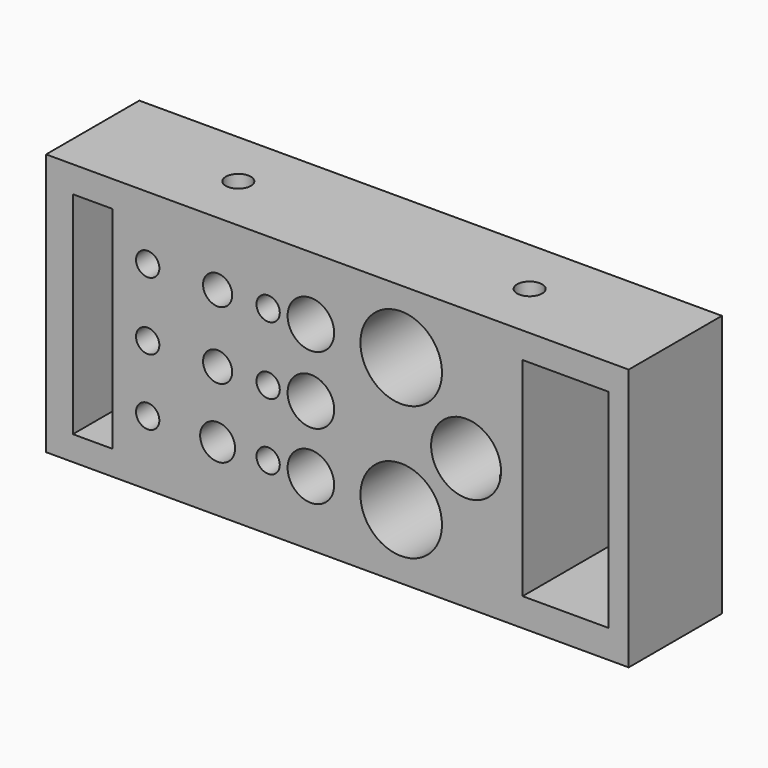
from build123d import *

# Parameters (mm, degrees)
F0_W     = 100
F0_H     = 45
F0_R     = 2
F0_R_2   = 3
F0_R_3   = 4
F0_W_2   = 6.83609
F0_H_2   = 36.256011
F0_R_4   = 7
F0_R_5   = 2.5
F0_R_6   = 6
F0_W_3   = 14.703342
F0_H_3   = 35.687724
F1_DEPTH = 20
F2_R     = 2.15
F3_DEPTH = 50
F4_R     = 4
F5_DEPTH = 40


with BuildPart() as f1:
    # F0 (on Front) → F1 (new body)
    with BuildSketch(Plane.XZ):
        with Locations((-3.569908, 42.308319)):
            Rectangle(F0_W, F0_H)
        with Locations((-36.130425, 30.930979)):
            Circle(F0_R, mode=Mode.SUBTRACT)
        with Locations((-24.125798, 30.930979)):
            Circle(F0_R_2, mode=Mode.SUBTRACT)
        with Locations((-15.455791, 30.930979)):
            Circle(F0_R, mode=Mode.SUBTRACT)
        with Locations((-8.11963, 30.930979)):
            Circle(F0_R_3, mode=Mode.SUBTRACT)
        with Locations((-45.552673, 42.154359)):
            Rectangle(F0_W_2, F0_H_2, mode=Mode.SUBTRACT)
        with Locations((7.382729, 30.930979)):
            Circle(F0_R_4, mode=Mode.SUBTRACT)
        with Locations((-36.130425, 42.308319)):
            Circle(F0_R, mode=Mode.SUBTRACT)
        with Locations((-24.125798, 42.308319)):
            Circle(F0_R_5, mode=Mode.SUBTRACT)
        with Locations((-15.455791, 42.308319)):
            Circle(F0_R, mode=Mode.SUBTRACT)
        with Locations((-8.11963, 42.308319)):
            Circle(F0_R_3, mode=Mode.SUBTRACT)
        with Locations((-36.130425, 53.91388)):
            Circle(F0_R, mode=Mode.SUBTRACT)
        with Locations((-24.125798, 53.91388)):
            Circle(F0_R_5, mode=Mode.SUBTRACT)
        with Locations((-15.455791, 53.91388)):
            Circle(F0_R, mode=Mode.SUBTRACT)
        with Locations((-8.11963, 53.91388)):
            Circle(F0_R_3, mode=Mode.SUBTRACT)
        with Locations((18.517302, 42.308319)):
            Circle(F0_R_6, mode=Mode.SUBTRACT)
        with Locations((35.576041, 42.493804)):
            Rectangle(F0_W_3, F0_H_3, mode=Mode.SUBTRACT)
        with Locations((7.382729, 53.91388)):
            Circle(F0_R_4, mode=Mode.SUBTRACT)
    extrude(amount=F1_DEPTH)

    # F2 (on face) → F3 (cut)
    with BuildSketch(Plane(origin=(0, 0, 19.808319), x_dir=(1, 0, 0), z_dir=(0, 0, -1))):
        with Locations((21.430092, 10)):
            Circle(F2_R)
        with Locations((-28.569908, 10)):
            Circle(F2_R)
    extrude(amount=-F3_DEPTH, mode=Mode.SUBTRACT)

    # F4 (on face) → F5 (cut)
    with BuildSketch(Plane(origin=(0, 0, 19.808319), x_dir=(1, 0, 0), z_dir=(0, 0, -1))):
        with Locations((-28.569908, 10)):
            Circle(F4_R)
        with Locations((21.430092, 10)):
            Circle(F4_R)
    extrude(amount=-F5_DEPTH, mode=Mode.SUBTRACT)


solid = f1.part
